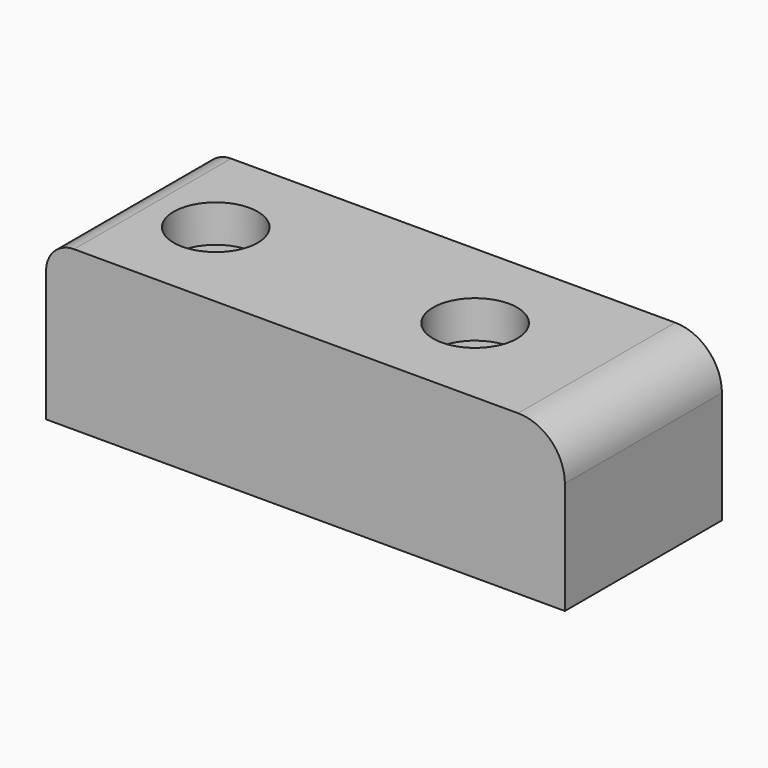
from build123d import *

# Parameters (mm, degrees)
F1_DEPTH = 21
F2_R     = 5
F4_DEPTH = 25
F5_R     = 3
F6_R     = 4.5
F7_DEPTH = 4


with BuildPart() as f1:
    # F0 (on Front) → F1 (new body)
    with BuildSketch(Plane.XZ):
        Polygon((55.5, 17), (6.891753, 17), (0, 17), (0, 0), (55.5, 0), align=None)
    extrude(amount=F1_DEPTH)

    # F2
    f2_edges = [f1.edges().sort_by_distance(p)[0] for p in [
        (55.5, -10.5, 17),
    ]]
    fillet(f2_edges, radius=F2_R)

    # F3 (on face) → F4 (cut)
    with BuildSketch(Plane.XY.offset(17)):
        with BuildLine():
            ThreePointArc((39.5, -10.5), (37.5, -8.5), (35.5, -10.5))
            Line((35.5, -10.5), (39.5, -10.5))
        make_face()
        with BuildLine():
            Line((39.5, -10.5), (35.5, -10.5))
            ThreePointArc((35.5, -10.5), (37.5, -12.5), (39.5, -10.5))
        make_face()
        with BuildLine():
            ThreePointArc((7.75, -10.5), (9.75, -12.5), (11.75, -10.5))
            Line((11.75, -10.5), (7.75, -10.5))
        make_face()
        with BuildLine():
            Line((7.75, -10.5), (11.75, -10.5))
            ThreePointArc((11.75, -10.5), (9.75, -8.5), (7.75, -10.5))
        make_face()
    extrude(amount=-F4_DEPTH, mode=Mode.SUBTRACT)

    # F5
    f5_edges = [f1.edges().sort_by_distance(p)[0] for p in [
        (0, -10.5, 17),
    ]]
    fillet(f5_edges, radius=F5_R)

    # F6 (on face) → F7 (cut)
    with BuildSketch(Plane.XY.offset(17)):
        with Locations((9.75, -10.5)):
            Circle(F6_R)
        with Locations((37.5, -10.5)):
            Circle(F6_R)
    extrude(amount=-F7_DEPTH, mode=Mode.SUBTRACT)


solid = f1.part
